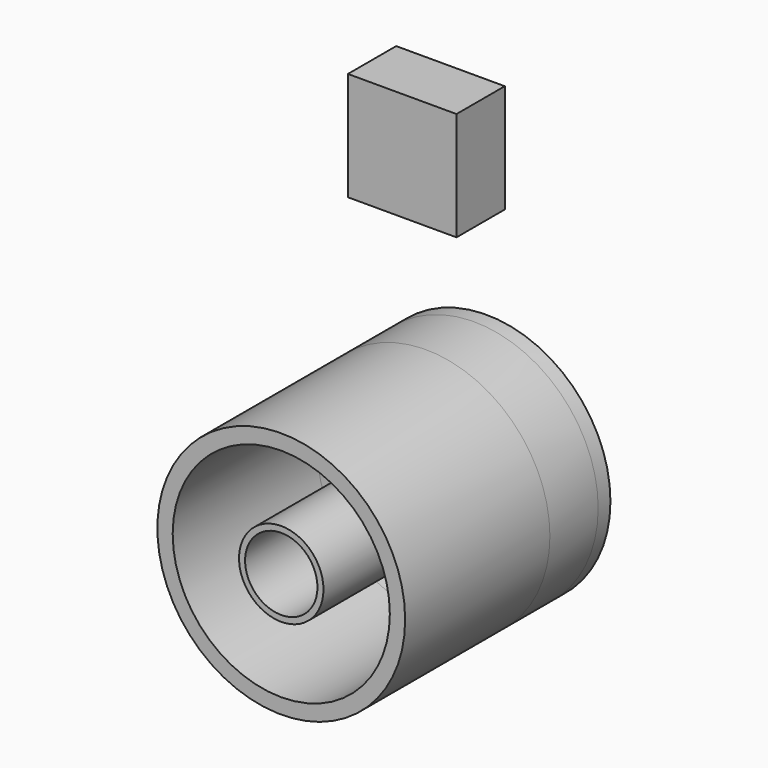
from build123d import *

# Parameters (mm, degrees)
F0_R     = 17.5
F0_R_2   = 15
F1_DEPTH = 100
F0_R_3   = 51.35
F0_R_4   = 45
F2_R     = 51.35
F3_DEPTH = 6.35
F4_DEPTH = 25
F0_W     = 45
F0_H     = 45


with BuildPart() as f1:
    # F0 (on Front) → F1 (new body)
    with BuildSketch(Plane.XZ):
        Circle(F0_R)
        Circle(F0_R_2, mode=Mode.SUBTRACT)
    extrude(amount=F1_DEPTH)


with BuildPart() as f1b:
    # F0 (on Front) → F1, piece 2 (new body)
    with BuildSketch(Plane.XZ):
        Circle(F0_R_3)
        Circle(F0_R_4, mode=Mode.SUBTRACT)
    extrude(amount=F1_DEPTH)


with BuildPart() as f3:
    # F2 (on Front) → F3 (new body)
    with BuildSketch(Plane.XZ):
        Circle(F2_R)
    extrude(amount=-F3_DEPTH)


with BuildPart() as f4:
    # F0 (on Front) → F4 (new body)
    with BuildSketch(Plane.XZ):
        Circle(F0_R_3)
        Circle(F0_R_4, mode=Mode.SUBTRACT)
    extrude(amount=F4_DEPTH)


with BuildPart() as f4b:
    # F0 (on Front) → F4, piece 2 (new body)
    with BuildSketch(Plane.XZ):
        with Locations((-9.8678175732, 118.9188403636)):
            Rectangle(F0_W, F0_H)
    extrude(amount=F4_DEPTH)


solid = Compound([f1.part, f1b.part, f3.part, f4.part, f4b.part])
